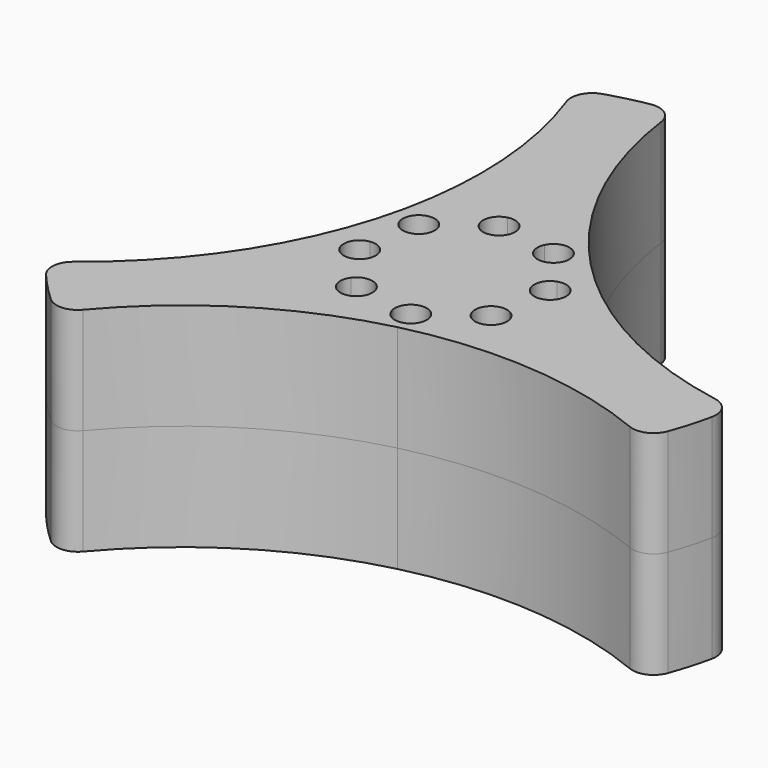
from build123d import *

# Parameters (mm, degrees)
F1_DEPTH      = 12.7
F1_DEPTH_BACK = 12.7


with BuildPart() as f1:
    # F0 (on Top) → F1 (new body, two sides)
    with BuildSketch(Plane.XY) as f1_sk:
        with BuildLine():
            ThreePointArc((-111.9032161657, 45.1075771975), (-104.9388147825, 49.6046967237), (-102.233028536, 57.4408750939))
            ThreePointArc((-102.233028536, 57.4408750939), (-103.1495920186, 62.1780286527), (-105.7669850463, 66.2314181228))
            ThreePointArc((-105.7669850463, 66.2314181228), (-111.3902737379, 69.6367304735), (-117.9628407751, 69.7741730225))
            ThreePointArc((-117.9628407751, 69.7741730225), (-123.7235718813, 66.6069182803), (-127.1288839844, 60.9836296554))
            ThreePointArc((-127.1288839844, 60.9836296554), (-124.0990716757, 48.6503316999), (-111.9032161657, 45.1075771975))
        make_face()
        with BuildLine():
            ThreePointArc((-119.0629153027, 66.3050093604), (-118.9416645433, 67.8436709883), (-117.720455796, 68.7875091882))
            ThreePointArc((-117.720455796, 68.7875091882), (-116.2009205472, 68.5169653295), (-115.3805191431, 67.2096310616))
            ThreePointArc((-115.3805191431, 67.2096310616), (-113.4541917392, 67.1074092571), (-111.5854100251, 66.6290354813))
            ThreePointArc((-111.5854100251, 66.6290354813), (-109.4453537915, 67.6632905836), (-107.9625390148, 65.8056618162))
            ThreePointArc((-107.9625390148, 65.8056618162), (-108.0598650939, 65.2045461904), (-108.3418985903, 64.6648523252))
            ThreePointArc((-108.3418985903, 64.6648523252), (-107.0520611513, 63.2304514239), (-106.0688942695, 61.5707618605))
            ThreePointArc((-106.0688942695, 61.5707618605), (-104.3354570915, 61.3284924248), (-103.531389131, 59.773830518))
            ThreePointArc((-103.531389131, 59.773830518), (-103.9963531849, 58.526705234), (-105.1642725683, 57.8883657009))
            ThreePointArc((-105.1642725683, 57.8883657009), (-105.1565898795, 57.6646790168), (-105.154028536, 57.4408750939))
            ThreePointArc((-105.154028536, 57.4408750939), (-105.3028711794, 55.7411956283), (-105.7448681486, 54.0932565829))
            ThreePointArc((-105.7448681486, 54.0932565829), (-104.956169881, 53.3903974367), (-104.6632418137, 52.3753855727))
            ThreePointArc((-104.6632418137, 52.3753855727), (-105.7150762613, 50.6721141497), (-107.7090513047, 50.8497451481))
            ThreePointArc((-107.7090513047, 50.8497451481), (-109.143452206, 49.5599077092), (-110.8031417694, 48.5767408274))
            ThreePointArc((-110.8031417694, 48.5767408274), (-110.7222846244, 48.2650711548), (-110.6950731119, 47.9442356888))
            ThreePointArc((-110.6950731119, 47.9442356888), (-112.4636646746, 46.0441257609), (-114.485537929, 47.6721191262))
            ThreePointArc((-114.485537929, 47.6721191262), (-116.4118653329, 47.7743409307), (-118.280647047, 48.2527147064))
            ThreePointArc((-118.280647047, 48.2527147064), (-120.9853017302, 47.4465844645), (-121.5241584818, 50.2168978626))
            ThreePointArc((-121.5241584818, 50.2168978626), (-122.8139959207, 51.6512987638), (-123.7971628025, 53.3109883272))
            ThreePointArc((-123.7971628025, 53.3109883272), (-126.2796626303, 54.6534478339), (-124.7017845037, 56.9933844868))
            ThreePointArc((-124.7017845037, 56.9933844868), (-124.5995626992, 58.9197118907), (-124.1211889235, 60.7884936048))
            ThreePointArc((-124.1211889235, 60.7884936048), (-124.9273191654, 63.493148288), (-122.1570057673, 64.0320050396))
            ThreePointArc((-122.1570057673, 64.0320050396), (-120.7226048661, 65.3218424786), (-119.0629153027, 66.3050093604))
        make_face(mode=Mode.SUBTRACT)
        with BuildLine():
            ThreePointArc((-105.7669850463, 66.2314181228), (-103.1495920186, 62.1780286527), (-102.233028536, 57.4408750939))
            ThreePointArc((-102.233028536, 57.4408750939), (-104.9388147825, 49.6046967237), (-111.9032161657, 45.1075771975))
            ThreePointArc((-111.9032161657, 45.1075771975), (-97.0154400661, 46.358254472), (-82.4698502509, 42.9471127619))
            ThreePointArc((-82.4698502509, 42.9471127619), (-80.4804099193, 42.9769764127), (-79.1228638065, 44.4315668094))
            ThreePointArc((-79.1228638065, 44.4315668094), (-78.3454622215, 46.8126113043), (-77.7261887634, 49.2395901865))
            ThreePointArc((-77.7261887634, 49.2395901865), (-78.0931330297, 51.1951250433), (-79.7569486957, 52.2862172026))
            ThreePointArc((-79.7569486957, 52.2862172026), (-93.8663258144, 57.199011108), (-105.7669850463, 66.2314181228))
        make_face()
        with BuildLine():
            ThreePointArc((-136.9851331378, 29.5548252922), (-125.675840017, 39.3175075021), (-111.9032161657, 45.1075771975))
            ThreePointArc((-111.9032161657, 45.1075771975), (-124.0990716757, 48.6503316999), (-127.1288839844, 60.9836296554))
            ThreePointArc((-127.1288839844, 60.9836296554), (-133.4896537424, 47.4650986561), (-143.7165840545, 36.5738191773))
            ThreePointArc((-143.7165840545, 36.5738191773), (-144.6854415401, 34.8359814855), (-144.1045023609, 32.9330168666))
            ThreePointArc((-144.1045023609, 32.9330168666), (-142.4311581332, 31.0692450977), (-140.6389694958, 29.3194491099))
            ThreePointArc((-140.6389694958, 29.3194491099), (-138.7619544987, 28.6594647379), (-136.9851331378, 29.5548252922))
        make_face()
        with BuildLine():
            ThreePointArc((-111.5854100251, 66.6290354813), (-113.4541917392, 67.1074092571), (-115.3805191431, 67.2096310616))
            ThreePointArc((-115.3805191431, 67.2096310616), (-115.3658740322, 67.0739229362), (-115.3609839601, 66.9375144989))
            ThreePointArc((-115.3609839601, 66.9375144989), (-115.7668519034, 65.7620877354), (-116.8115121243, 65.0875198096))
            ThreePointArc((-116.8115121243, 65.0875198096), (-118.1721404496, 65.2618339158), (-119.0629153027, 66.3050093604))
            ThreePointArc((-119.0629153027, 66.3050093604), (-120.7226048661, 65.3218424786), (-122.1570057673, 64.0320050396))
            ThreePointArc((-122.1570057673, 64.0320050396), (-121.5945438354, 63.3595301674), (-121.3928152584, 62.5063646151))
            ThreePointArc((-121.3928152584, 62.5063646151), (-122.2828033944, 60.8942926824), (-124.1211889235, 60.7884936048))
            ThreePointArc((-124.1211889235, 60.7884936048), (-124.5995626992, 58.9197118907), (-124.7017845037, 56.9933844868))
            ThreePointArc((-124.7017845037, 56.9933844868), (-123.182542657, 56.5479556158), (-122.5246679411, 55.1079196698))
            ThreePointArc((-122.5246679411, 55.1079196698), (-122.8750060343, 54.0069876303), (-123.7971628025, 53.3109883272))
            ThreePointArc((-123.7971628025, 53.3109883272), (-122.8139959207, 51.6512987638), (-121.5241584818, 50.2168978626))
            ThreePointArc((-121.5241584818, 50.2168978626), (-119.3974024314, 50.8837622924), (-118.0935180572, 49.0760883715))
            ThreePointArc((-118.0935180572, 49.0760883715), (-118.1408892899, 48.6539031482), (-118.280647047, 48.2527147064))
            ThreePointArc((-118.280647047, 48.2527147064), (-116.4118653329, 47.7743409307), (-114.485537929, 47.6721191262))
            ThreePointArc((-114.485537929, 47.6721191262), (-113.0545449478, 49.7942303781), (-110.8031417694, 48.5767408274))
            ThreePointArc((-110.8031417694, 48.5767408274), (-109.143452206, 49.5599077092), (-107.7090513047, 50.8497451481))
            ThreePointArc((-107.7090513047, 50.8497451481), (-108.1977457206, 53.3621692456), (-105.7448681486, 54.0932565829))
            ThreePointArc((-105.7448681486, 54.0932565829), (-105.3028711794, 55.7411956283), (-105.154028536, 57.4408750939))
            ThreePointArc((-105.154028536, 57.4408750939), (-105.1565898795, 57.6646790168), (-105.1642725683, 57.8883657009))
            ThreePointArc((-105.1642725683, 57.8883657009), (-107.2863838203, 59.3193586821), (-106.0688942695, 61.5707618605))
            ThreePointArc((-106.0688942695, 61.5707618605), (-107.0520611513, 63.2304514239), (-108.3418985903, 64.6648523252))
            ThreePointArc((-108.3418985903, 64.6648523252), (-110.8543226878, 64.1761579093), (-111.5854100251, 66.6290354813))
        make_face()
        with BuildLine():
            ThreePointArc((-117.9628407751, 69.7741730225), (-111.3902737379, 69.6367304735), (-105.7669850463, 66.2314181228))
            ThreePointArc((-105.7669850463, 66.2314181228), (-114.2939916511, 78.4992719445), (-118.6126513027, 92.8016933424))
            ThreePointArc((-118.6126513027, 92.8016933424), (-119.6332341487, 94.5096673835), (-121.5717194408, 94.9580416056))
            ThreePointArc((-121.5717194408, 94.9580416056), (-122.8013442638, 94.7195500651), (-124.0224652534, 94.4407688797))
            Line((-124.0224652534, 94.4407688797), (-117.9628407751, 69.7741730225))
        make_face()
        with BuildLine():
            ThreePointArc((-127.1288839844, 60.9836296554), (-123.7235718813, 66.6069182803), (-117.9628407751, 69.7741730225))
            Line((-117.9628407751, 69.7741730225), (-124.0224652534, 94.4407688797))
            ThreePointArc((-124.0224652534, 94.4407688797), (-125.2337626594, 94.1219993476), (-126.4339273489, 93.7635859852))
            ThreePointArc((-126.4339273489, 93.7635859852), (-127.9439980797, 92.4680355004), (-128.0570037746, 90.4815827868))
            ThreePointArc((-128.0570037746, 90.4815827868), (-125.2569195337, 75.8061065896), (-127.1288839844, 60.9836296554))
        make_face()
    extrude(amount=F1_DEPTH)
    extrude(f1_sk.sketch, amount=-F1_DEPTH_BACK)


solid = f1.part
